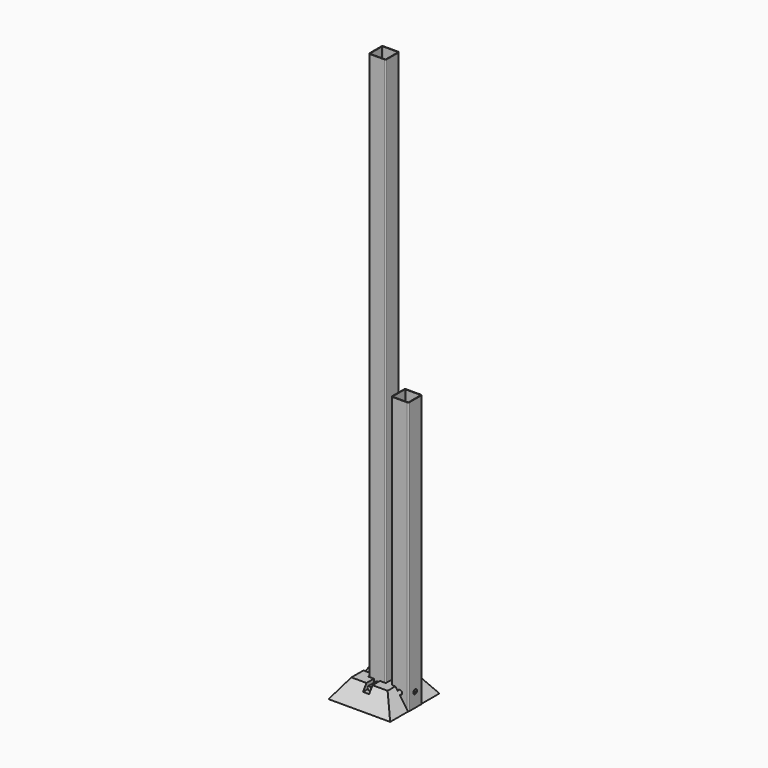
from build123d import *

# Parameters (mm, degrees)
F0_W      = 160
F0_H      = 160
F3_W      = 272
F3_H      = 272
F5_W      = 78
F5_H      = 78
F6_DEPTH  = 80.0010001
F7_W      = 27
F7_H      = 54
F8_DEPTH  = 119.1
F9_W      = 27
F9_H      = 54
F10_DEPTH = 400
F12_DEPTH = 2500
F14_DEPTH = 173.5010001
F16_DEPTH = 173.5010001
F17_R     = 9.5
F17_R_2   = 8.3
F18_DEPTH = 80
F20_DEPTH = 1300


with BuildPart() as f4:
    # F0 (on Top) → F4 section 0
    with BuildSketch(Plane.XY):
        Rectangle(F0_W, F0_H)
    # F3 (on line) → F4 section 1
    with BuildSketch(Plane(origin=(0, 0, -80), x_dir=(1, 0, 0), z_dir=(0, 0, -1))):
        Rectangle(F3_W, F3_H)
    loft()

    # F5 (on face) → F6 (cut, through all)
    with BuildSketch(Plane.XY):
        Rectangle(F5_W, F5_H)
    extrude(amount=-F6_DEPTH, mode=Mode.SUBTRACT)

    # F7 (on Front) → F8 (cut, symmetric)
    with BuildSketch(Plane.XZ):
        Rectangle(F7_W, F7_H)
    extrude(amount=F8_DEPTH, both=True, mode=Mode.SUBTRACT)

    # F9 (on Right) → F10 (cut, symmetric)
    with BuildSketch(Plane.YZ):
        Rectangle(F9_W, F9_H)
    extrude(amount=F10_DEPTH, both=True, mode=Mode.SUBTRACT)


with BuildPart() as f12:
    # F11 (on line) → F12 (new body)
    with BuildSketch(Plane(origin=(0, 0, -80), x_dir=(1, 0, 0), z_dir=(0, 0, -1))):
        with BuildLine():
            Line((32.5, 37.5), (-32.5, 37.5))
            ThreePointArc((-32.5, 37.5), (-36.0355339059, 36.0355339059), (-37.5, 32.5))
            Line((-37.5, 32.5), (-37.5, -32.5))
            ThreePointArc((-37.5, -32.5), (-36.0355339059, -36.0355339059), (-32.5, -37.5))
            Line((-32.5, -37.5), (32.5, -37.5))
            ThreePointArc((32.5, -37.5), (36.0355339059, -36.0355339059), (37.5, -32.5))
            Line((37.5, -32.5), (37.5, 32.5))
            ThreePointArc((37.5, 32.5), (36.0355339059, 36.0355339059), (32.5, 37.5))
        make_face()
        with BuildLine():
            ThreePointArc((-35, 32.5), (-34.267766953, 34.267766953), (-32.5, 35))
            Line((-32.5, 35), (32.5, 35))
            ThreePointArc((32.5, 35), (34.267766953, 34.267766953), (35, 32.5))
            Line((35, 32.5), (35, -32.5))
            ThreePointArc((35, -32.5), (34.267766953, -34.267766953), (32.5, -35))
            Line((32.5, -35), (-32.5, -35))
            ThreePointArc((-32.5, -35), (-34.267766953, -34.267766953), (-35, -32.5))
            Line((-35, -32.5), (-35, 32.5))
        make_face(mode=Mode.SUBTRACT)
    extrude(amount=-F12_DEPTH)

    # F13 (on face) → F14 (cut, through all)
    with BuildSketch(Plane.XZ.offset(37.5)):
        with BuildLine():
            ThreePointArc((0, -27), (7.0710678119, -24.0710678119), (10, -17))
            ThreePointArc((10, -17), (-7.0710678119, -9.9289321881), (0, -27))
        make_face()
    extrude(amount=-F14_DEPTH, mode=Mode.SUBTRACT)

    # F15 (on face) → F16 (cut, through all)
    with BuildSketch(Plane.YZ.offset(37.5)):
        with BuildLine():
            ThreePointArc((0, -27), (7.0710678119, -24.0710678119), (10, -17))
            ThreePointArc((10, -17), (-7.0710678119, -9.9289321881), (0, -27))
        make_face()
    extrude(amount=-F16_DEPTH, mode=Mode.SUBTRACT)


with BuildPart() as f18:
    # F17 (on Front) → F18 (new body, symmetric)
    with BuildSketch(Plane.XZ):
        with Locations((0, -17)):
            Circle(F17_R)
        with Locations((0, -17)):
            Circle(F17_R_2, mode=Mode.SUBTRACT)
    extrude(amount=F18_DEPTH, both=True)


with BuildPart() as f19_1:
    # F19: copy of F12
    add(f12.part.moved(Location((100, 0, 0))))

    # F20 (cut): a face of the model
    f20_faces = [f19_1.faces().sort_by_distance(p)[0] for p in [
        (100, -36.4393398282, 2420),
    ]]
    extrude(f20_faces, amount=-F20_DEPTH, mode=Mode.SUBTRACT)


solid = Compound([f4.part, f12.part, f18.part, f19_1.part])
